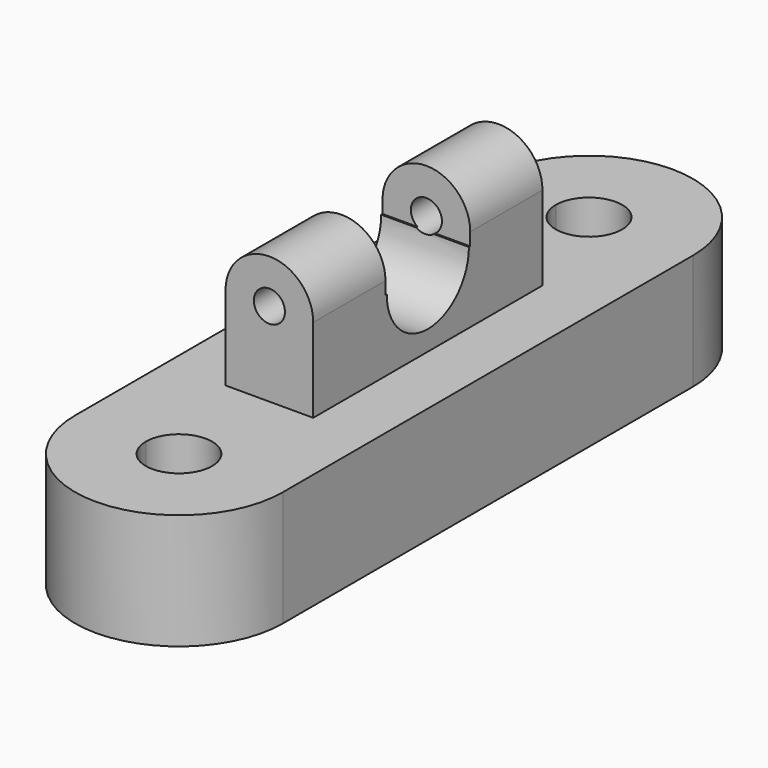
from build123d import *

# Parameters (mm, degrees)
F1_DEPTH = 25.4
F2_R     = 3.419127
F3_DEPTH = 31.496
F5_DEPTH = 36.322


with BuildPart() as f1:
    # F0 (on Top) → F1 (new body)
    with BuildSketch(Plane.XY):
        with BuildLine():
            ThreePointArc((-22.843207, -56.337804), (0, -79.181011), (22.843207, -56.337804))
            Line((22.843207, -56.337804), (7.287237, -56.337804))
            ThreePointArc((7.287237, -56.337804), (0, -63.625041), (-7.287237, -56.337804))
            Line((-7.287237, -56.337804), (-22.843207, -56.337804))
        make_face()
        with BuildLine():
            Line((7.287237, -56.337804), (22.843207, -56.337804))
            Line((22.843207, -56.337804), (22.843207, 56.337804))
            Line((22.843207, 56.337804), (7.301988, 56.337804))
            ThreePointArc((7.301988, 56.337804), (0, 49.035816), (-7.301988, 56.337804))
            Line((-7.301988, 56.337804), (-22.843207, 56.337804))
            Line((-22.843207, 56.337804), (-22.843207, -56.337804))
            Line((-22.843207, -56.337804), (-7.287237, -56.337804))
            ThreePointArc((-7.287237, -56.337804), (0, -49.050566), (7.287237, -56.337804))
        make_face()
        with BuildLine():
            Line((7.301988, 56.337804), (22.843207, 56.337804))
            ThreePointArc((22.843207, 56.337804), (0, 79.181011), (-22.843207, 56.337804))
            Line((-22.843207, 56.337804), (-7.301988, 56.337804))
            ThreePointArc((-7.301988, 56.337804), (0, 63.639791), (7.301988, 56.337804))
        make_face()
    extrude(amount=F1_DEPTH)

    # F2 (on Front) → F3 (join, symmetric)
    with BuildSketch(Plane.XZ):
        with BuildLine():
            Line((-9.637341, 25.398405), (9.637341, 25.398405))
            Line((9.637341, 25.398405), (9.637341, 43.869978))
            ThreePointArc((9.637341, 43.869978), (0, 53.507319), (-9.637341, 43.869978))
            Line((-9.637341, 43.869978), (-9.637341, 25.398405))
        make_face()
        with Locations((0, 43.869978)):
            Circle(F2_R, mode=Mode.SUBTRACT)
    extrude(amount=F3_DEPTH, both=True)

    # F4 (on Right) → F5 (cut, symmetric)
    with BuildSketch(Plane.YZ):
        with BuildLine():
            Line((11.288291, 41.059084), (11.645118, 41.059084))
            Line((11.645118, 41.059084), (11.645118, 65.955549))
            Line((11.645118, 65.955549), (-11.645118, 65.955549))
            Line((-11.645118, 65.955549), (-11.645118, 41.059084))
            Line((-11.645118, 41.059084), (-11.288291, 41.059084))
            ThreePointArc((-11.288291, 41.059084), (0, 29.770793), (11.288291, 41.059084))
        make_face()
    extrude(amount=F5_DEPTH, both=True, mode=Mode.SUBTRACT)


solid = f1.part
